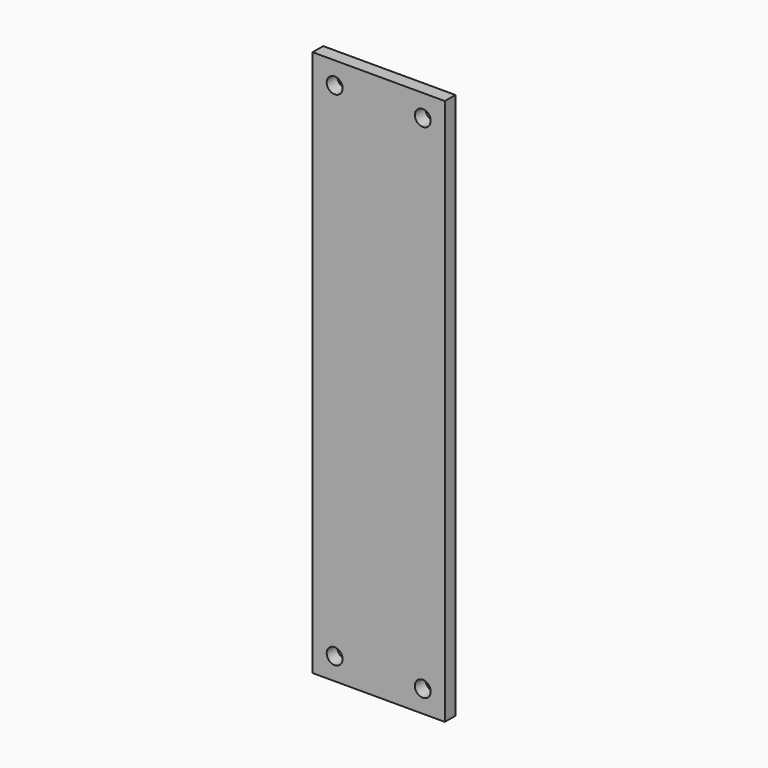
from build123d import *

# Parameters (mm, degrees)
CYLINDER038_R       = 1.8
CYLINDER038_DEPTH   = 10
ARRAY001019_X_COUNT = 2
ARRAY001019_X_PITCH = 20
ARRAY001019_Z_COUNT = 2
ARRAY001019_Z_PITCH = 114
BOX018_W            = 30
BOX018_H            = 3
BOX018_DEPTH        = 124


with BuildPart() as side_connector_hole_array:
    # Cylinder038 → Cylinder038 (new body)
    with BuildSketch(Plane.XZ):
        Circle(CYLINDER038_R)
    extrude(amount=CYLINDER038_DEPTH)

    # Array001019 X: side connector hole array ×2


with BuildPart() as side_connector_hole_array_1:
    add(side_connector_hole_array.part)
    with Locations(*[(i * ARRAY001019_X_PITCH, 0, 0) for i in range(1, ARRAY001019_X_COUNT)]):
        add(side_connector_hole_array.part)

    # Array001019 Z: side connector hole array ×2


with BuildPart() as side_connector_hole_array_2:
    add(side_connector_hole_array_1.part)
    with Locations(*[(0, 0, i * ARRAY001019_Z_PITCH) for i in range(1, ARRAY001019_Z_COUNT)]):
        add(side_connector_hole_array_1.part)


with BuildPart() as side_connector_hole_array_3:
    # Array001019 placement: moved
    add(side_connector_hole_array_2.part.moved(Location((5, 5, 5))))


with BuildPart() as vertical_side_connector_clone001:
    # Box018 → Box018 (new body)
    with BuildSketch(Plane.XY):
        with Locations((15, 1.5)):
            Rectangle(BOX018_W, BOX018_H)
    extrude(amount=BOX018_DEPTH)

    # Cut014: cut side connector hole array
    add(side_connector_hole_array_3.part, mode=Mode.SUBTRACT)


with BuildPart() as vertical_side_connector_clone001_1:
    # Compound001 placement: moved
    add(vertical_side_connector_clone001.part.moved(Location((0, -5, -36))))


with BuildPart() as vertical_side_connector_clone001_2:
    # Clone005 placement: moved
    add(vertical_side_connector_clone001_1.part.moved(Location((0, 0, 2))))


with BuildPart() as vertical_side_connector_clone001_3:
    # Body005 placement: moved
    add(vertical_side_connector_clone001_2.part.moved(Location((0, 87, 0))))


solid = vertical_side_connector_clone001_3.part
